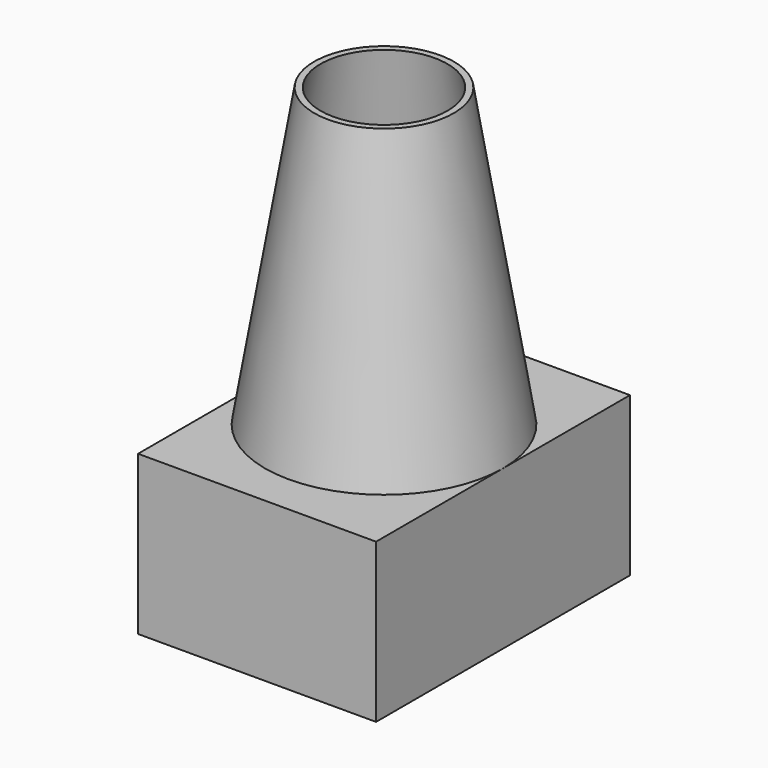
from build123d import *

# Parameters (mm, degrees)
F0_W     = 75
F0_H     = 100
F1_DEPTH = 50


with BuildPart() as f1:
    # F0 (on Top) → F1 (new body)
    with BuildSketch(Plane.XY):
        Rectangle(F0_W, F0_H)
    extrude(amount=-F1_DEPTH)

    # F2 (on Right) → F3 (revolve)
    with BuildSketch(Plane.YZ):
        Polygon((-35.5, 0), (-20, 93.500273), (-22, 93.500273), (-37.5, 0), align=None)
    revolve(axis=Axis((0, 0, 46.750137), (0, 0, 1)))


solid = f1.part
